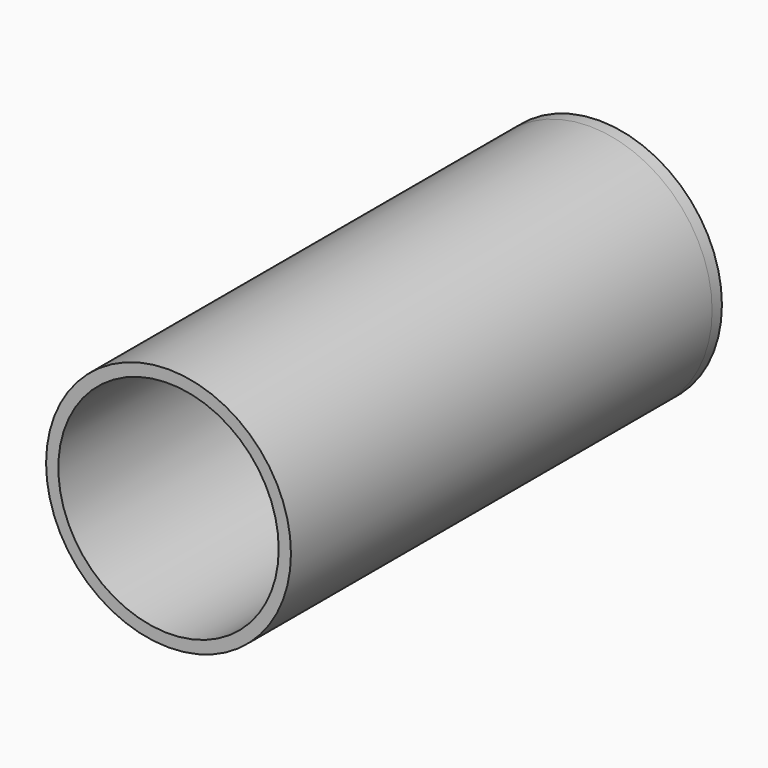
from build123d import *

# Parameters (mm, degrees)
F0_R     = 127
F0_R_2   = 114.3
F1_DEPTH = 546.1
F2_DEPTH = 12.7


with BuildPart() as f1:
    # F0 (on Front) → F1 (new body)
    with BuildSketch(Plane.XZ):
        Circle(F0_R)
        Circle(F0_R_2, mode=Mode.SUBTRACT)
    extrude(amount=F1_DEPTH)


with BuildPart() as f2:
    # F0 (on Front) → F2 (new body)
    with BuildSketch(Plane.XZ):
        Circle(F0_R)
        Circle(F0_R_2, mode=Mode.SUBTRACT)
        Circle(F0_R_2)
    extrude(amount=-F2_DEPTH)


solid = Compound([f1.part, f2.part])
